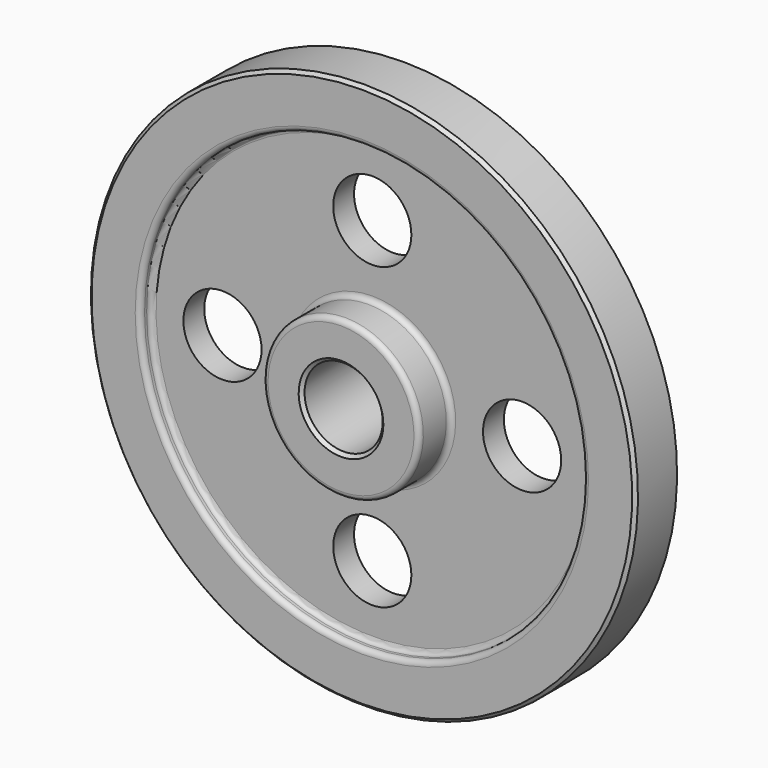
from build123d import *

# Parameters (mm, degrees)
F2_R     = 19.05
F3_DEPTH = 25.4
F4_R     = 2.54
F5_SIZE  = 1.5875


with BuildPart() as f1:
    # F0 (on Right) → F1 (revolve)
    with BuildSketch(Plane.YZ):
        Polygon((0, 19.05), (12.7, 19.05), (25.4, 19.05), (25.4, 38.1), (6.35, 38.1), (6.35, 107.95), (12.7, 107.95), (12.7, 133.35), (0, 133.35), align=None)
        Polygon((-12.7, 19.05), (0, 19.05), (0, 133.35), (-12.7, 133.35), (-12.7, 107.95), (-6.35, 107.95), (-6.35, 38.1), (-25.4, 38.1), (-25.4, 19.05), align=None)
    revolve(axis=Axis((0, 12.7, 0), (0, 1, 0)))

    # F2 (on face) → F3 (cut)
    with BuildSketch(Plane.XZ.offset(6.35)):
        with Locations((-73.025, 0)):
            Circle(F2_R)
        with Locations((0, 73.025)):
            Circle(F2_R)
        with Locations((73.025, 0)):
            Circle(F2_R)
        with Locations((0, -73.025)):
            Circle(F2_R)
    extrude(amount=-F3_DEPTH, mode=Mode.SUBTRACT)

    # F4
    f4_edges = [f1.edges().sort_by_distance(p)[0] for p in [
        (0, -6.35, -107.95),
        (0, -12.7, -107.95),
        (0, -6.35, -38.1),
        (0, -25.4, -38.1),
    ]]
    fillet(f4_edges, radius=F4_R)

    # F5
    f5_edges = [f1.edges().sort_by_distance(p)[0] for p in [
        (0, -25.4, -19.05),
        (0, -12.7, -133.35),
        (0, 25.4, -19.05),
    ]]
    chamfer(f5_edges, length=F5_SIZE)


solid = f1.part
